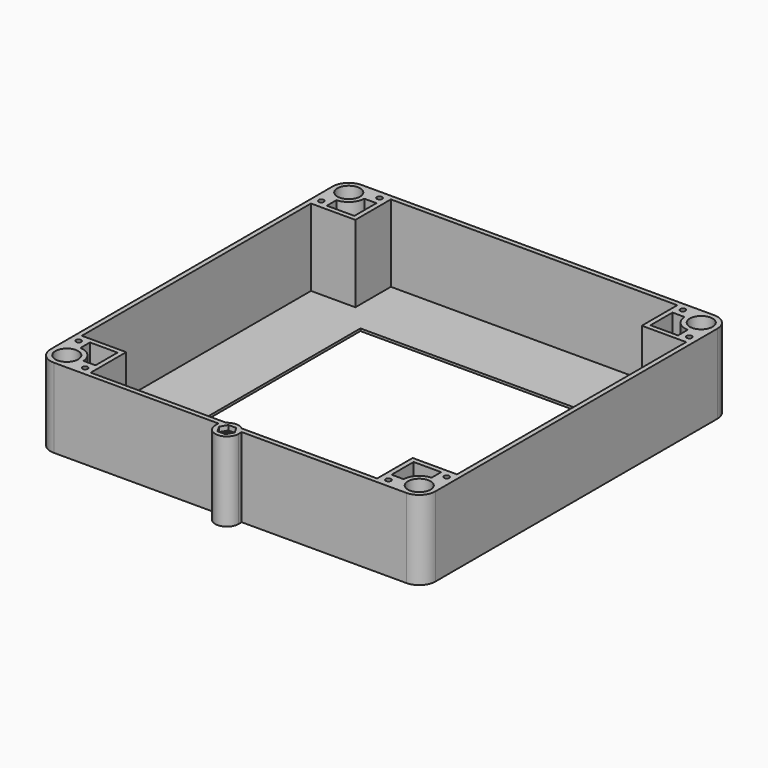
from build123d import *

# Parameters (mm, degrees)
F0_R      = 1.7272
F0_R_2    = 5.9124977
F0_W      = 155.575
F0_H      = 155.575
F1_DEPTH  = 1.5875
F2_R      = 1.7272
F2_R_2    = 7.5
F3_DEPTH  = 50.8
F4_R      = 3.96875
F5_DEPTH  = 25.4
F6_R      = 10.6749977
F9_DEPTH  = 3.175
F7_R      = 4.9641200318
F10_DEPTH = 25.4


with BuildPart() as f1:
    # F0 (on Top) → F1 (new body)
    with BuildSketch(Plane.XY):
        with BuildLine():
            Line((204.7875, -204.7875), (204.7875, 49.2125))
            Line((204.7875, 49.2125), (-49.2125, 49.2125))
            Line((-49.2125, 49.2125), (-49.2125, -204.7875))
            Line((-49.2125, -204.7875), (70.0918461, -204.7875))
            Line((70.0918461, -204.7875), (75.9769233055, -204.7875))
            ThreePointArc((75.9769233055, -204.7875), (77.7875, -204.2206482), (79.5980766945, -204.7875))
            Line((79.5980766945, -204.7875), (85.4831539, -204.7875))
            Line((85.4831539, -204.7875), (204.7875, -204.7875))
        make_face()
        with Locations((-22.3062546, -199.23125)):
            Circle(F0_R, mode=Mode.SUBTRACT)
        with Locations((-38.5375023, -194.1125023)):
            Circle(F0_R_2, mode=Mode.SUBTRACT)
        with Locations((-43.65625, -177.8812546)):
            Circle(F0_R, mode=Mode.SUBTRACT)
        with Locations((177.8812546, -199.23125)):
            Circle(F0_R, mode=Mode.SUBTRACT)
        with Locations((194.1125023, -194.1125023)):
            Circle(F0_R_2, mode=Mode.SUBTRACT)
        with Locations((199.23125, -177.8812546)):
            Circle(F0_R, mode=Mode.SUBTRACT)
        with Locations((-43.65625, 22.3062546)):
            Circle(F0_R, mode=Mode.SUBTRACT)
        with Locations((-38.5375023, 38.5375023)):
            Circle(F0_R_2, mode=Mode.SUBTRACT)
        with Locations((-22.3062546, 43.65625)):
            Circle(F0_R, mode=Mode.SUBTRACT)
        with Locations((77.7875, -77.7875)):
            Rectangle(F0_W, F0_H, mode=Mode.SUBTRACT)
        with Locations((199.23125, 22.3062546)):
            Circle(F0_R, mode=Mode.SUBTRACT)
        with Locations((177.8812546, 43.65625)):
            Circle(F0_R, mode=Mode.SUBTRACT)
        with Locations((194.1125023, 38.5375023)):
            Circle(F0_R_2, mode=Mode.SUBTRACT)
        with BuildLine():
            Line((85.4831539, -207.3956482), (85.4831539, -204.7875))
            Line((85.4831539, -204.7875), (79.5980766945, -204.7875))
            ThreePointArc((79.5980766945, -204.7875), (80.6007904227, -205.9239070552), (80.9625, -207.3956482))
            ThreePointArc((80.9625, -207.3956482), (76.3157588552, -210.2089386227), (75.9769233055, -204.7875))
            Line((75.9769233055, -204.7875), (70.0918461, -204.7875))
            Line((70.0918461, -204.7875), (70.0918461, -207.3956482))
            ThreePointArc((70.0918461, -207.3956482), (77.7875, -215.0913021), (85.4831539, -207.3956482))
        make_face()
    extrude(amount=F1_DEPTH)

    # F2 (on face) → F3 (join)
    with BuildSketch(Plane.XY.offset(1.5875)):
        with BuildLine():
            Line((204.7875, -204.7875), (204.7875, 49.2125))
            Line((204.7875, 49.2125), (-49.2125, 49.2125))
            Line((-49.2125, 49.2125), (-49.2125, -204.7875))
            Line((-49.2125, -204.7875), (70.0918461, -204.7875))
            Line((70.0918461, -204.7875), (75.9769233055, -204.7875))
            ThreePointArc((75.9769233055, -204.7875), (77.7875, -204.2206482), (79.5980766945, -204.7875))
            Line((79.5980766945, -204.7875), (85.4831539, -204.7875))
            Line((85.4831539, -204.7875), (204.7875, -204.7875))
        make_face()
        with Locations((-22.3062546, -199.23125)):
            Circle(F2_R, mode=Mode.SUBTRACT)
        with Locations((-38.5375023, -194.1125023)):
            Circle(F2_R_2, mode=Mode.SUBTRACT)
        with BuildLine():
            Line((-38.1, -175.5000046), (-19.9250046, -175.5000046))
            Line((-19.9250046, -175.5000046), (-19.9250046, -193.675))
            Line((-19.9250046, -193.675), (-27.871473628, -193.675))
            ThreePointArc((-27.871473628, -193.675), (-30.9891390372, -186.5641390372), (-38.1, -183.446473628))
            Line((-38.1, -183.446473628), (-38.1, -175.5000046))
        make_face(mode=Mode.SUBTRACT)
        with Locations((-43.65625, -177.8812546)):
            Circle(F2_R, mode=Mode.SUBTRACT)
        with Locations((177.8812546, -199.23125)):
            Circle(F2_R, mode=Mode.SUBTRACT)
        with BuildLine():
            Line((175.5000046, -193.675), (175.5000046, -175.5000046))
            Line((175.5000046, -175.5000046), (193.675, -175.5000046))
            Line((193.675, -175.5000046), (193.675, -183.446473628))
            ThreePointArc((193.675, -183.446473628), (186.5641390372, -186.5641390372), (183.446473628, -193.675))
            Line((183.446473628, -193.675), (175.5000046, -193.675))
        make_face(mode=Mode.SUBTRACT)
        with Locations((194.1125023, -194.1125023)):
            Circle(F2_R_2, mode=Mode.SUBTRACT)
        with Locations((199.23125, -177.8812546)):
            Circle(F2_R, mode=Mode.SUBTRACT)
        with Locations((-43.65625, 22.3062546)):
            Circle(F2_R, mode=Mode.SUBTRACT)
        with BuildLine():
            Line((-19.9250046, 38.1), (-19.9250046, 19.9250046))
            Line((-19.9250046, 19.9250046), (-38.1, 19.9250046))
            Line((-38.1, 19.9250046), (-38.1, 27.871473628))
            ThreePointArc((-38.1, 27.871473628), (-30.9891390372, 30.9891390372), (-27.871473628, 38.1))
            Line((-27.871473628, 38.1), (-19.9250046, 38.1))
        make_face(mode=Mode.SUBTRACT)
        with Locations((-38.5375023, 38.5375023)):
            Circle(F2_R_2, mode=Mode.SUBTRACT)
        with Locations((-22.3062546, 43.65625)):
            Circle(F2_R, mode=Mode.SUBTRACT)
        Polygon((-16.7500046, 46.0375), (172.3250046, 46.0375), (172.3250046, 16.7500046), (201.6125, 16.7500046), (201.6125, -172.3250046), (172.3250046, -172.3250046), (172.3250046, -201.6125), (82.8647321047, -201.6125), (72.7102678953, -201.6125), (-16.7500046, -201.6125), (-16.7500046, -172.3250046), (-46.0375, -172.3250046), (-46.0375, 16.7500046), (-16.7500046, 16.7500046), align=None, mode=Mode.SUBTRACT)
        with BuildLine():
            Line((193.675, 19.9250046), (175.5000046, 19.9250046))
            Line((175.5000046, 19.9250046), (175.5000046, 38.1))
            Line((175.5000046, 38.1), (183.446473628, 38.1))
            ThreePointArc((183.446473628, 38.1), (186.5641390372, 30.9891390372), (193.675, 27.871473628))
            Line((193.675, 27.871473628), (193.675, 19.9250046))
        make_face(mode=Mode.SUBTRACT)
        with Locations((199.23125, 22.3062546)):
            Circle(F2_R, mode=Mode.SUBTRACT)
        with Locations((177.8812546, 43.65625)):
            Circle(F2_R, mode=Mode.SUBTRACT)
        with Locations((194.1125023, 38.5375023)):
            Circle(F2_R_2, mode=Mode.SUBTRACT)
        with BuildLine():
            Line((85.4831539, -207.3956482), (85.4831539, -204.7875))
            Line((85.4831539, -204.7875), (79.5980766945, -204.7875))
            ThreePointArc((79.5980766945, -204.7875), (80.6007904227, -205.9239070552), (80.9625, -207.3956482))
            ThreePointArc((80.9625, -207.3956482), (76.3157588552, -210.2089386227), (75.9769233055, -204.7875))
            Line((75.9769233055, -204.7875), (70.0918461, -204.7875))
            Line((70.0918461, -204.7875), (70.0918461, -207.3956482))
            ThreePointArc((70.0918461, -207.3956482), (77.7875, -215.0913021), (85.4831539, -207.3956482))
        make_face()
        with BuildLine():
            Line((72.7102678953, -201.6125), (82.8647321047, -201.6125))
            ThreePointArc((82.8647321047, -201.6125), (77.7875, -199.6999943), (72.7102678953, -201.6125))
        make_face()
    extrude(amount=F3_DEPTH)

    # F4 (on face) → F5 (cut)
    with BuildSketch(Plane(origin=(0, 0, 0), x_dir=(1, 0, 0), z_dir=(0, 0, -1))):
        with Locations((-43.65625, -22.3062546)):
            Circle(F4_R)
        with Locations((-22.3062546, -43.65625)):
            Circle(F4_R)
        with Locations((-43.65625, 177.8812546)):
            Circle(F4_R)
        with Locations((-22.3062546, 199.23125)):
            Circle(F4_R)
        with Locations((199.23125, 177.8812546)):
            Circle(F4_R)
        with Locations((177.8812546, 199.23125)):
            Circle(F4_R)
        with Locations((177.8812546, -43.65625)):
            Circle(F4_R)
        with Locations((199.23125, -22.3062546)):
            Circle(F4_R)
    extrude(amount=-F5_DEPTH, mode=Mode.SUBTRACT)

    # F6
    f6_edges = [f1.edges().sort_by_distance(p)[0] for p in [
        (204.7875, 49.2125, 26.19375),
        (204.7875, -204.7875, 26.19375),
        (-49.2125, -204.7875, 26.19375),
        (-49.2125, 49.2125, 26.19375),
    ]]
    fillet(f6_edges, radius=F6_R)

    # F8 (on face) → F9 (cut)
    with BuildSketch(Plane.XY.offset(52.3875)):
        Polygon((75.1774992539, -211.9163021), (80.3975007461, -211.9163021), (83.0075014922, -207.3956482), (80.3975007461, -202.8749943), (75.1774992539, -202.8749943), (72.5674985078, -207.3956482), align=None)
    extrude(amount=-F9_DEPTH, mode=Mode.SUBTRACT)

    # F7 (on face) → F10 (cut)
    with BuildSketch(Plane(origin=(0, 0, 0), x_dir=(1, 0, 0), z_dir=(0, 0, -1))):
        with Locations((77.7875, 207.3956482)):
            Circle(F7_R)
    extrude(amount=-F10_DEPTH, mode=Mode.SUBTRACT)


solid = f1.part
